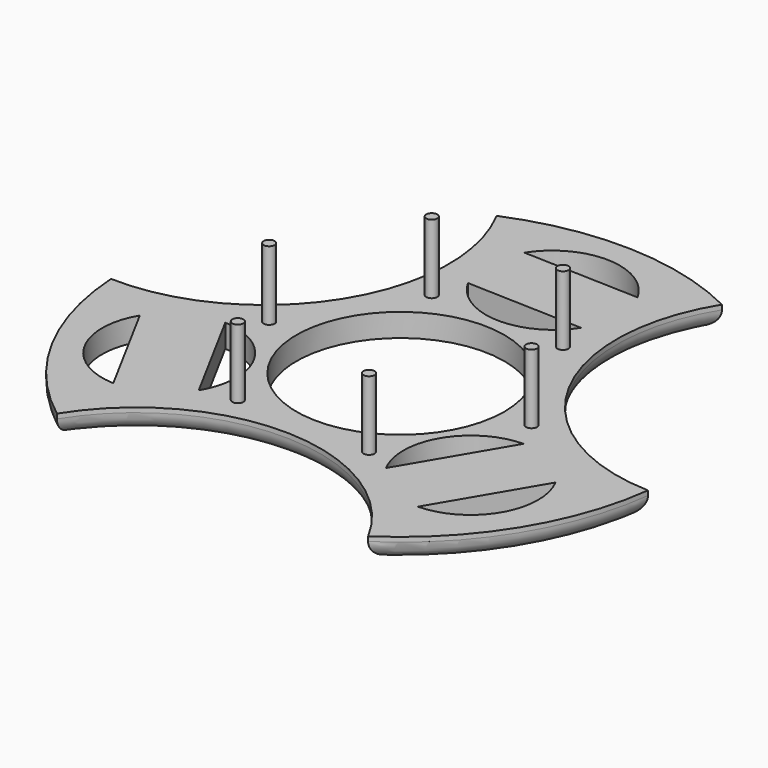
from build123d import *

# Parameters (mm, degrees)
F0_R     = 0.762
F0_R_2   = 14.3129
F1_DEPTH = 3.175
F2_R     = 2.54
F3_DEPTH = 12.7


with BuildPart() as f1:
    # F0 (on Top) → F1 (new body)
    with BuildSketch(Plane.XY):
        with BuildLine():
            ThreePointArc((37.814818885, -4.6528993857), (16.2183640692, 8.713670097), (16.9939270688, 34.1000944688))
            ThreePointArc((16.9939270688, 34.1000944688), (1.1909176957, 38.0813827879), (-14.8299813197, 35.0953223957))
            ThreePointArc((-14.8299813197, 35.0953223957), (-15.6508840085, 9.7188762367), (-38.0323831061, -2.2688841474))
            ThreePointArc((-38.0323831061, -2.2688841474), (-33.5888120947, -17.9833729335), (-22.9742885145, -30.3939478721))
            ThreePointArc((-22.9742885145, -30.3939478721), (-0.5866848831, -18.4058352173), (20.9920077442, -31.7953709031))
            ThreePointArc((20.9920077442, -31.7953709031), (32.3842423806, -20.0716428185), (37.814818885, -4.6528993857))
        make_face()
        with BuildLine():
            ThreePointArc((-22.6742041591, -21.077906737), (-30.5143778905, -16.2115761649), (-30.2921493088, -6.9866039788))
            Line((-30.2921493088, -6.9866039788), (-22.6742041591, -21.077906737))
        make_face(mode=Mode.SUBTRACT)
        with Locations((-9.7768361415, -15.7612173143)):
            Circle(F0_R, mode=Mode.SUBTRACT)
        with BuildLine():
            ThreePointArc((-22.077246757, -2.5455187134), (-14.2471455868, -7.4172946457), (-14.4593016073, -16.6368214716))
            Line((-14.4593016073, -16.6368214716), (-22.077246757, -2.5455187134))
        make_face(mode=Mode.SUBTRACT)
        with Locations((8.761196518, -16.3475971243)):
            Circle(F0_R, mode=Mode.SUBTRACT)
        with BuildLine():
            ThreePointArc((12.5619529023, -18.1867123268), (12.756507598, -9.1097250706), (20.6001486004, -4.5373247159))
            Line((20.6001486004, -4.5373247159), (12.5619529023, -18.1867123268))
        make_face(mode=Mode.SUBTRACT)
        with Locations((18.5380326595, -0.58637981)):
            Circle(F0_R, mode=Mode.SUBTRACT)
        with BuildLine():
            Line((20.8666791326, -23.0774090058), (28.9048748307, -9.4280213948))
            ThreePointArc((28.9048748307, -9.4280213948), (28.7016006579, -18.4998737054), (20.8666791326, -23.0774090058))
        make_face(mode=Mode.SUBTRACT)
        with Locations((-18.5380326595, 0.58637981)):
            Circle(F0_R, mode=Mode.SUBTRACT)
        with Locations((-8.761196518, 16.3475971243)):
            Circle(F0_R, mode=Mode.SUBTRACT)
        Circle(F0_R_2, mode=Mode.SUBTRACT)
        with BuildLine():
            ThreePointArc((8.554840384, 20.4151336434), (0.3927024044, 16.1488375122), (-7.4634526605, 20.9553546163))
            Line((-7.4634526605, 20.9553546163), (8.554840384, 20.4151336434))
        make_face(mode=Mode.SUBTRACT)
        with Locations((9.7768361415, 15.7612173143)):
            Circle(F0_R, mode=Mode.SUBTRACT)
        with BuildLine():
            Line((8.86910012, 29.7333659897), (-7.1491929245, 30.2735869625))
            ThreePointArc((-7.1491929245, 30.2735869625), (1.0136418787, 34.5605448721), (8.86910012, 29.7333659897))
        make_face(mode=Mode.SUBTRACT)
    extrude(amount=F1_DEPTH)

    # F2
    f2_edges = [f1.edges().sort_by_distance(p)[0] for p in [
        (-15.650884, 9.718876, 0),
        (1.190918, 38.081383, 0),
        (-0.586685, -18.405835, 0),
        (32.384242, -20.071643, 0),
        (16.218364, 8.71367, 0),
        (-33.588812, -17.983373, 0),
    ]]
    fillet(f2_edges, radius=F2_R)

    # F0 (on Top) → F3 (join)
    with BuildSketch(Plane.XY):
        with Locations((-8.761196518, 16.3475971243)):
            Circle(F0_R)
        with Locations((-18.5380326595, 0.58637981)):
            Circle(F0_R)
        with Locations((-9.7768361415, -15.7612173143)):
            Circle(F0_R)
        with Locations((8.761196518, -16.3475971243)):
            Circle(F0_R)
        with Locations((18.5380326595, -0.58637981)):
            Circle(F0_R)
        with Locations((9.7768361415, 15.7612173143)):
            Circle(F0_R)
    extrude(amount=F3_DEPTH)


solid = f1.part
